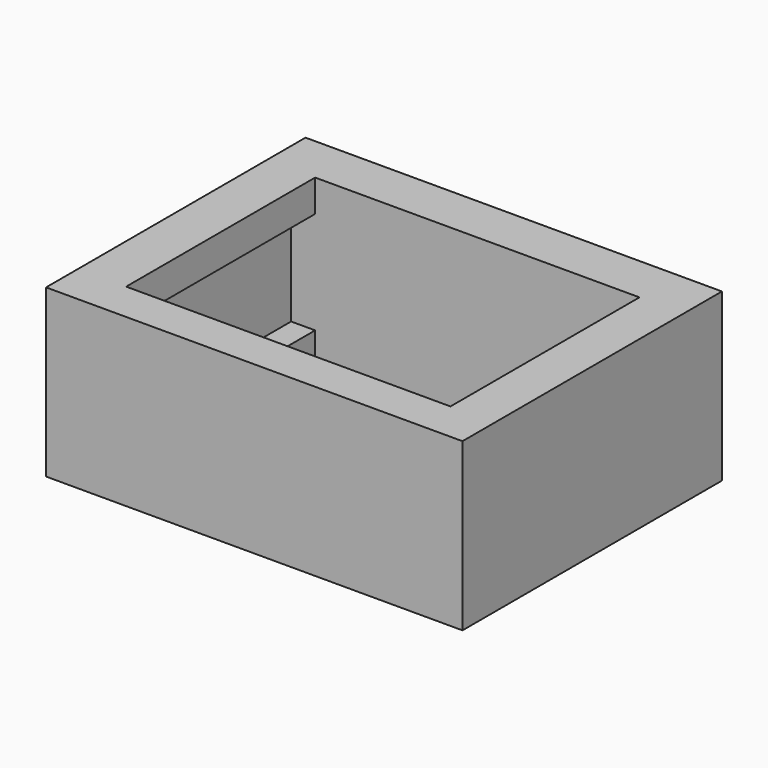
from build123d import *

# Parameters (mm, degrees)
F1_DEPTH = 14.75
F2_DEPTH = 3
F3_W     = 26
F3_H     = 10.4
F4_DEPTH = 2.5
F5_W     = 26
F5_H     = 10.4
F6_DEPTH = 2.5


with BuildPart() as f1:
    # F0 (on Front) → F1 (new body)
    with BuildSketch(Plane.XZ):
        Polygon((3, 10.4), (0, 10.4), (0, 0), (3, 0), (3, 2), (1.5, 2), (1.5, 8.4), (3, 8.4), align=None)
    extrude(amount=F1_DEPTH)



with BuildPart() as f1b:
    # F0 (on Front) → F1, piece 2 (new body)
    with BuildSketch(Plane.XZ):
        Polygon((26, 10.4), (23.25, 10.4), (23.25, 8.4), (24.75, 8.4), (24.75, 5), (19.7, 1.25), (19.7, 0), (26, 0), align=None)
    extrude(amount=F1_DEPTH)


with BuildPart() as f1_1:
    add(f1.part)

    add(f1b.part)  # F2 merges F1b
    # F0 (on Front) → F2 (join)
    with BuildSketch(Plane.XZ):
        Polygon((23.25, 10.4), (3, 10.4), (3, 8.4), (1.5, 8.4), (1.5, 2), (3, 2), (3, 0), (19.7, 0), (19.7, 1.25), (24.75, 5), (24.75, 8.4), (23.25, 8.4), align=None)
        Polygon((26, 10.4), (23.25, 10.4), (23.25, 8.4), (24.75, 8.4), (24.75, 5), (19.7, 1.25), (19.7, 0), (26, 0), align=None)
        Polygon((3, 10.4), (0, 10.4), (0, 0), (3, 0), (3, 2), (1.5, 2), (1.5, 8.4), (3, 8.4), align=None)
    extrude(amount=-F2_DEPTH)

    # F3 (on face) → F4 (join)
    with BuildSketch(Plane.XZ.offset(14.75)):
        with Locations((13, 5.2)):
            Rectangle(F3_W, F3_H)
    extrude(amount=F4_DEPTH)

    # F5 (on Front) → F6 (join)
    with BuildSketch(Plane.XZ):
        with Locations((13, 5.2)):
            Rectangle(F5_W, F5_H)
    extrude(amount=-F6_DEPTH)


solid = f1_1.part
